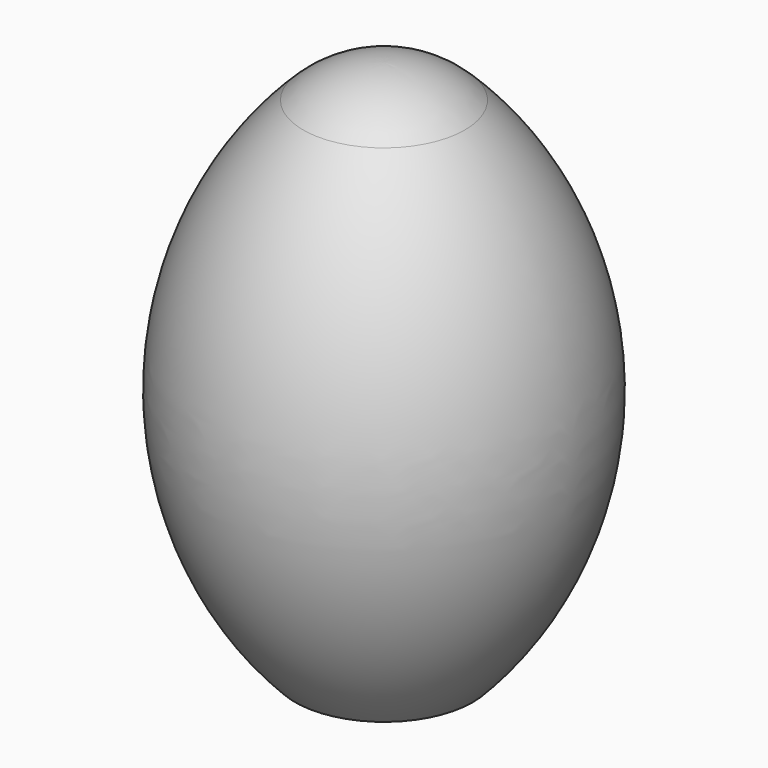
from build123d import *


with BuildPart() as f1:
    # F0 (on Front) → F1 (revolve)
    with BuildSketch(Plane.XZ):
        with BuildLine():
            Line((0, 43.18), (0, 0))
            Line((0, 0), (12.7, 0))
            ThreePointArc((12.7, 0), (26.830044, 35.988727), (11.537859, 71.499229))
            ThreePointArc((11.537859, 71.499229), (15.216277, 66.096639), (16.51, 59.69))
            ThreePointArc((16.51, 59.69), (11.674333, 48.015667), (0, 43.18))
        make_face()
        with BuildLine():
            Line((0, 76.2), (0, 43.18))
            ThreePointArc((0, 43.18), (11.674333, 48.015667), (16.51, 59.69))
            ThreePointArc((16.51, 59.69), (15.216277, 66.096639), (11.537859, 71.499229))
            ThreePointArc((11.537859, 71.499229), (6.229355, 74.97971), (0, 76.2))
        make_face()
    revolve(axis=Axis((0, 0, 38.1), (0, 0, 1)))


solid = f1.part
